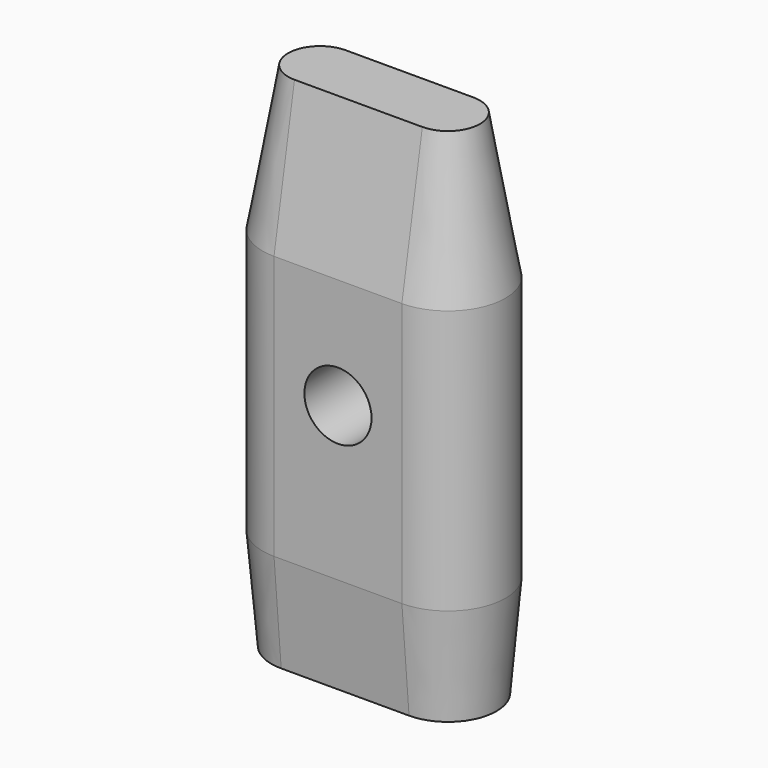
from build123d import *

# Parameters (mm, degrees)
F1_DEPTH = 40
F2_R     = 2.625
F3_DEPTH = 25
F4_SIZE2 = 0.6999093082
F4_SIZE  = 8
F5_SIZE2 = 11.3425636392
F5_SIZE  = 2


with BuildPart() as f1:
    # F0 (on Top) → F1 (new body)
    with BuildSketch(Plane.XY):
        with BuildLine():
            ThreePointArc((0, 9), (-4.5, 4.5), (0, 0))
            Line((0, 0), (10, 0))
            ThreePointArc((10, 0), (14.5, 4.5), (10, 9))
            Line((10, 9), (0, 9))
        make_face()
    extrude(amount=F1_DEPTH)

    # F2 (on face) → F3 (cut)
    with BuildSketch(Plane.XZ):
        with Locations((5, 20)):
            Circle(F2_R)
    extrude(amount=-F3_DEPTH, mode=Mode.SUBTRACT)

    # F4
    f4_edges = [f1.edges().sort_by_distance(p)[0] for p in [
        (5, 0, 0),
        (14.5, 4.5, 0),
        (5, 9, 0),
        (-4.5, 4.5, 0),
    ]]
    chamfer(f4_edges, length=F4_SIZE, length2=F4_SIZE2)

    # F5
    f5_edges = [f1.edges().sort_by_distance(p)[0] for p in [
        (5, 0, 40),
        (14.5, 4.5, 40),
        (5, 9, 40),
        (-4.5, 4.5, 40),
    ]]
    f5_side = f1.faces().sort_by_distance((5, 4.5, 40))[0]
    chamfer(f5_edges, length=F5_SIZE, length2=F5_SIZE2, reference=f5_side)


solid = f1.part
